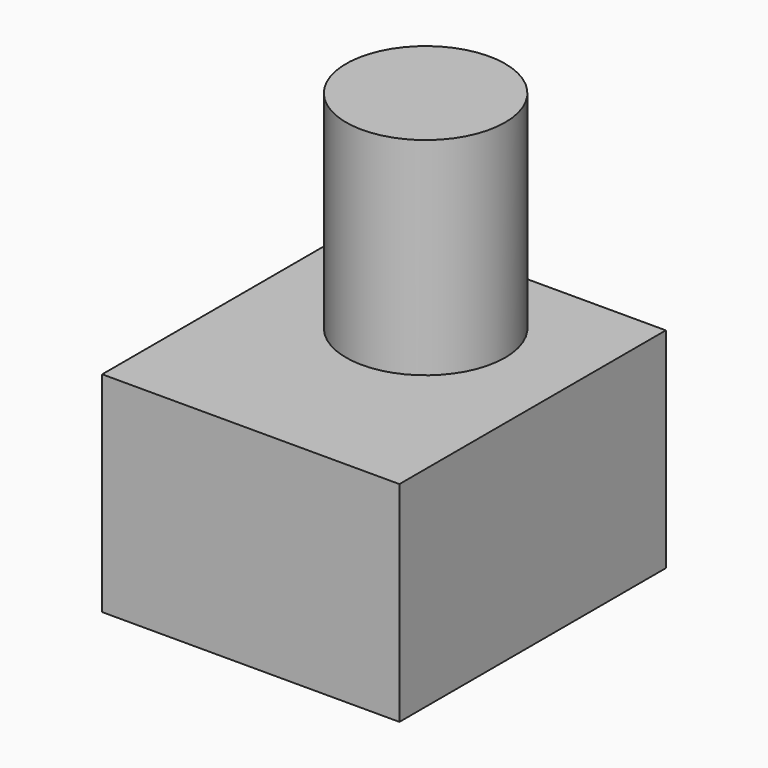
from build123d import *

# Parameters (mm, degrees)
F0_W     = 72.5571736693
F0_H     = 51.1083565652
F1_DEPTH = 27.94
F2_R     = 19.4094724008
F3_DEPTH = 50.546
F4_DEPTH = 25.4


with BuildPart() as f1:
    # F0 (on Front) → F1 (new body, symmetric)
    with BuildSketch(Plane.XZ):
        Rectangle(F0_W, F0_H)
    extrude(amount=F1_DEPTH, both=True)

    # F2 (on face) → F3 (join, symmetric)
    with BuildSketch(Plane.XY.offset(25.5541782826)):
        Circle(F2_R)
    extrude(amount=F3_DEPTH, both=True)

    # F4 (add): a face of the model
    f4_faces = [f1.faces().sort_by_distance(p)[0] for p in [
        (0, -27.94, 0),
    ]]
    extrude(f4_faces, amount=F4_DEPTH)


solid = f1.part
